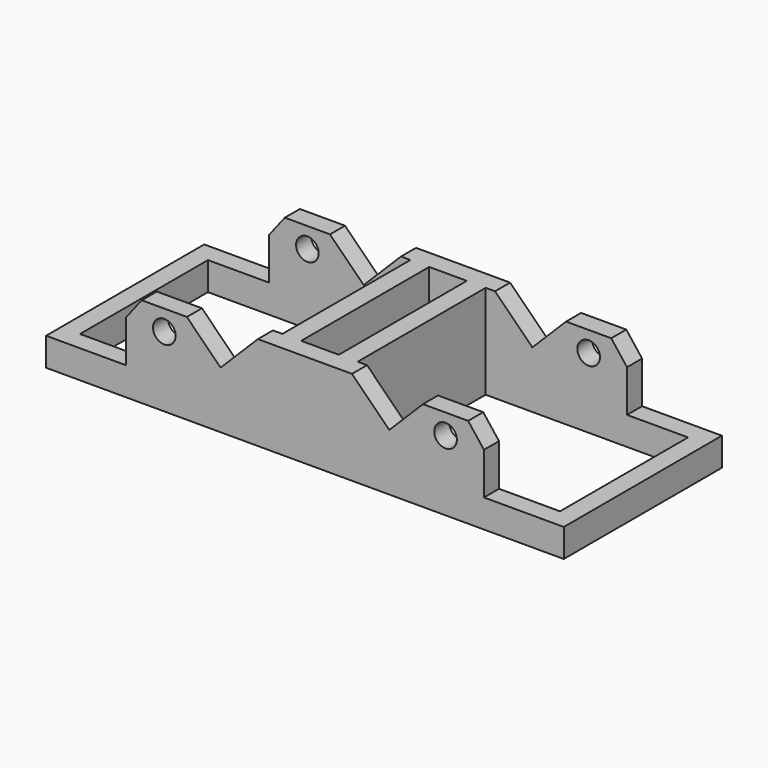
from build123d import *

# Parameters (mm, degrees)
F0_R     = 1.25
F1_DEPTH = 21.875
F2_W     = 22.395833
F2_H     = 17.708334
F2_W_2   = 4.166666
F3_DEPTH = 10.417667


with BuildPart() as f1:
    # F0 (on Front) → F1 (new body)
    with BuildSketch(Plane.XZ):
        Polygon((-28.645833, 0), (0, 0), (28.645833, 0), (28.645833, 3.125), (19.8125, 3.125), (12.5, 3.125), (9.333333, 6.291667), (5.208333, 10.416667), (0, 10.416667), (-5.208333, 10.416667), (-9.333333, 6.291667), (-12.5, 3.125), (-19.8125, 3.125), (-28.645833, 3.125), align=None)
        Polygon((12.5, 3.125), (19.8125, 3.125), (19.8125, 7.770833), (18.0625, 10.020833), (13.0625, 10.020833), (9.333333, 6.291667), align=None)
        with Locations((15.5625, 7.770833)):
            Circle(F0_R, mode=Mode.SUBTRACT)
        Polygon((-19.8125, 7.770833), (-19.8125, 3.125), (-12.5, 3.125), (-9.333333, 6.291667), (-13.0625, 10.020833), (-18.0625, 10.020833), align=None)
        with Locations((-15.5625, 7.770833)):
            Circle(F0_R, mode=Mode.SUBTRACT)
    extrude(amount=F1_DEPTH)

    # F2 (on face) → F3 (cut, through all)
    with BuildSketch(Plane.XY.offset(10.416667)):
        with Locations((-15.364584, -10.9375)):
            Rectangle(F2_W, F2_H)
        with Locations((15.364584, -10.9375)):
            Rectangle(F2_W, F2_H)
        with Locations((0, -10.9375)):
            Rectangle(F2_W_2, F2_H)
    extrude(amount=-F3_DEPTH, mode=Mode.SUBTRACT)


solid = f1.part
